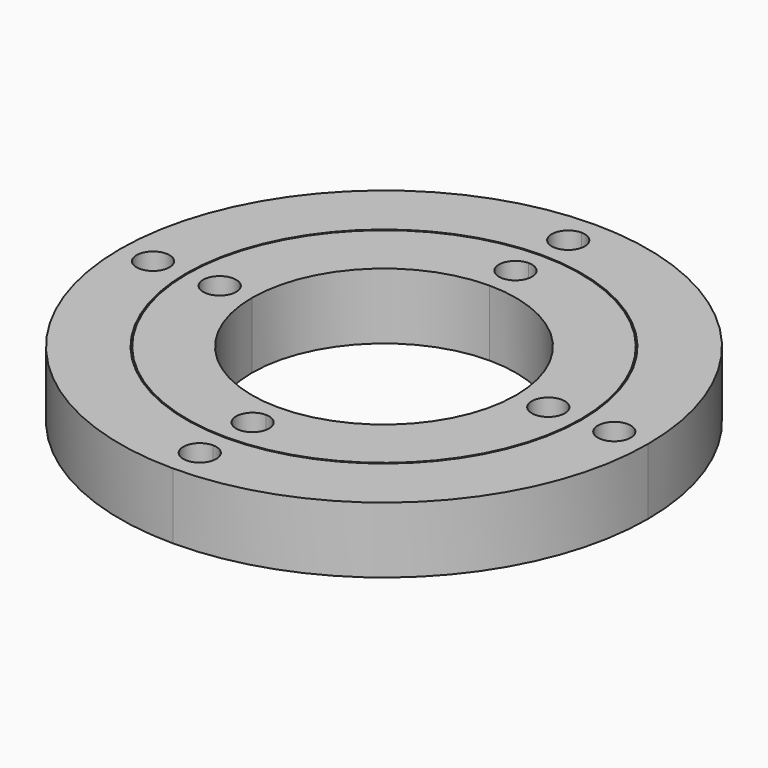
from build123d import *

# Parameters (mm, degrees)
F1_DEPTH = 12.7


with BuildPart() as f1:
    # F0 (on Top) → F1 (new body)
    with BuildSketch(Plane.XY):
        with BuildLine():
            Line((34.798, 0), (37.846, 0))
            ThreePointArc((37.846, 0), (26.7611632408, 26.7611632408), (0, 37.846))
            Line((0, 37.846), (0, 34.798))
            ThreePointArc((0, 34.798), (2.2450640303, 33.8680640303), (3.175, 31.623))
            ThreePointArc((3.175, 31.623), (2.2450640303, 29.3779359697), (0, 28.448))
            Line((0, 28.448), (0, 25.4))
            ThreePointArc((0, 25.4), (17.9605122421, 17.9605122421), (25.4, 0))
            Line((25.4, 0), (28.448, 0))
            ThreePointArc((28.448, 0), (31.623, 3.175), (34.798, 0))
        make_face()
        with BuildLine():
            Line((0, 34.798), (0, 37.846))
            ThreePointArc((0, 37.846), (-26.7611632408, 26.7611632408), (-37.846, 0))
            Line((-37.846, 0), (-34.798, 0))
            ThreePointArc((-34.798, 0), (-31.623, 3.175), (-28.448, 0))
            Line((-28.448, 0), (-25.4, 0))
            ThreePointArc((-25.4, 0), (-17.9605122421, 17.9605122421), (0, 25.4))
            Line((0, 25.4), (0, 28.448))
            ThreePointArc((0, 28.448), (-3.175, 31.623), (0, 34.798))
        make_face()
        with BuildLine():
            ThreePointArc((0, -37.846), (26.7611632408, -26.7611632408), (37.846, 0))
            Line((37.846, 0), (34.798, 0))
            ThreePointArc((34.798, 0), (31.623, -3.175), (28.448, 0))
            Line((28.448, 0), (25.4, 0))
            ThreePointArc((25.4, 0), (17.9605122421, -17.9605122421), (0, -25.4))
            Line((0, -25.4), (0, -28.448))
            ThreePointArc((0, -28.448), (2.2450640303, -29.3779359697), (3.175, -31.623))
            ThreePointArc((3.175, -31.623), (2.2450640303, -33.8680640303), (0, -34.798))
            Line((0, -34.798), (0, -37.846))
        make_face()
        with BuildLine():
            ThreePointArc((-37.846, 0), (-26.7611632408, -26.7611632408), (0, -37.846))
            Line((0, -37.846), (0, -34.798))
            ThreePointArc((0, -34.798), (-3.175, -31.623), (0, -28.448))
            Line((0, -28.448), (0, -25.4))
            ThreePointArc((0, -25.4), (-17.9605122421, -17.9605122421), (-25.4, 0))
            Line((-25.4, 0), (-28.448, 0))
            ThreePointArc((-28.448, 0), (-31.623, -3.175), (-34.798, 0))
            Line((-34.798, 0), (-37.846, 0))
        make_face()
    extrude(amount=F1_DEPTH)


with BuildPart() as f1b:
    # F0 (on Top) → F1, piece 2 (new body)
    with BuildSketch(Plane.XY):
        with BuildLine():
            Line((47.498, 0), (50.8, 0))
            ThreePointArc((50.8, 0), (35.9210244843, 35.9210244843), (0, 50.8))
            Line((0, 50.8), (0, 47.498))
            ThreePointArc((0, 47.498), (2.2450640303, 46.5680640303), (3.175, 44.323))
            ThreePointArc((3.175, 44.323), (2.2450640303, 42.0779359697), (0, 41.148))
            Line((0, 41.148), (0, 38.1))
            ThreePointArc((0, 38.1), (26.9407683632, 26.9407683632), (38.1, 0))
            Line((38.1, 0), (41.148, 0))
            ThreePointArc((41.148, 0), (44.323, 3.175), (47.498, 0))
        make_face()
        with BuildLine():
            Line((0, 47.498), (0, 50.8))
            ThreePointArc((0, 50.8), (-35.9210244843, 35.9210244843), (-50.8, 0))
            Line((-50.8, 0), (-47.625, 0))
            ThreePointArc((-47.625, 0), (-44.45, 3.175), (-41.275, 0))
            Line((-41.275, 0), (-38.1, 0))
            ThreePointArc((-38.1, 0), (-26.9407683632, 26.9407683632), (0, 38.1))
            Line((0, 38.1), (0, 41.148))
            ThreePointArc((0, 41.148), (-3.175, 44.323), (0, 47.498))
        make_face()
        with BuildLine():
            ThreePointArc((-50.8, 0), (-35.9210244843, -35.9210244843), (0, -50.8))
            Line((0, -50.8), (0, -47.498))
            ThreePointArc((0, -47.498), (-3.175, -44.323), (0, -41.148))
            Line((0, -41.148), (0, -38.1))
            ThreePointArc((0, -38.1), (-26.9407683632, -26.9407683632), (-38.1, 0))
            Line((-38.1, 0), (-41.275, 0))
            ThreePointArc((-41.275, 0), (-44.45, -3.175), (-47.625, 0))
            Line((-47.625, 0), (-50.8, 0))
        make_face()
        with BuildLine():
            ThreePointArc((0, -50.8), (35.9210244843, -35.9210244843), (50.8, 0))
            Line((50.8, 0), (47.498, 0))
            ThreePointArc((47.498, 0), (44.323, -3.175), (41.148, 0))
            Line((41.148, 0), (38.1, 0))
            ThreePointArc((38.1, 0), (26.9407683632, -26.9407683632), (0, -38.1))
            Line((0, -38.1), (0, -41.148))
            ThreePointArc((0, -41.148), (2.2450640303, -42.0779359697), (3.175, -44.323))
            ThreePointArc((3.175, -44.323), (2.2450640303, -46.5680640303), (0, -47.498))
            Line((0, -47.498), (0, -50.8))
        make_face()
    extrude(amount=F1_DEPTH)


solid = Compound([f1.part, f1b.part])
